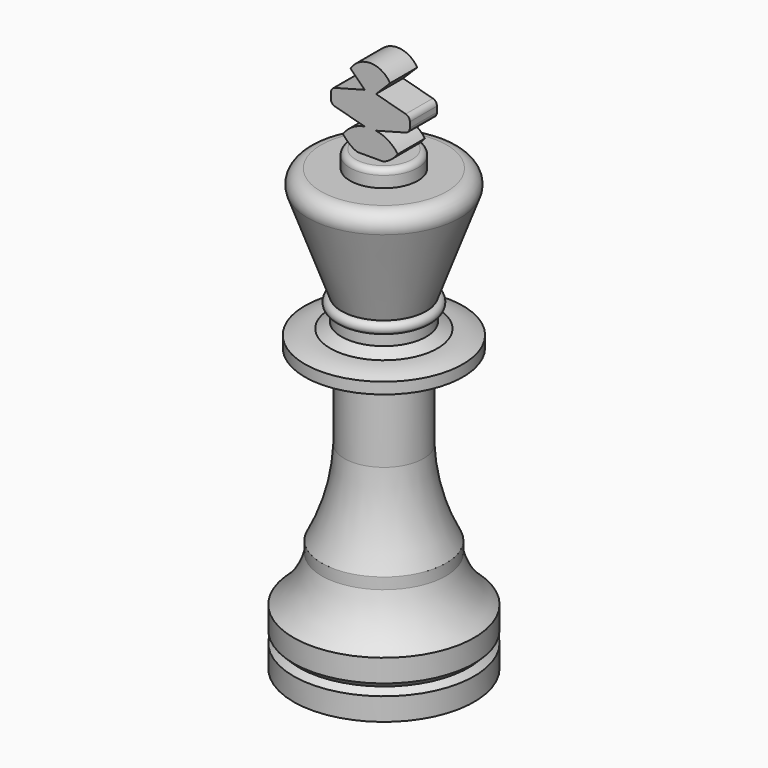
from build123d import *

# Parameters (mm, degrees)
F2_R          = 6
F3_DEPTH      = 3
F4_R          = 1
F6_DEPTH      = 3
F6_DEPTH_BACK = 3
F7_R          = 1


with BuildPart() as f1:
    # F0 (on Front) → F1 (revolve)
    with BuildSketch(Plane.XZ):
        with BuildLine():
            Line((0, 4), (0, 0))
            Line((0, 0), (16, 0))
            Line((16, 0), (16, 78))
            Line((16, 78), (4.849231552, 78))
            ThreePointArc((4.849231552, 78), (2.8013514412, 76.9339410909), (2.5, 74.6449496417))
            Line((2.5, 74.6449496417), (8.5, 58.160085125))
            ThreePointArc((8.5, 58.160085125), (7.5, 57.160085125), (8.5, 56.160085125))
            Line((8.5, 56.160085125), (8.5, 54.160085125))
            Line((8.5, 54.160085125), (6.5, 53))
            ThreePointArc((6.5, 53), (4.1915915237, 52.7628381434), (2, 52))
            Line((2, 52), (2, 50))
            Line((2, 50), (9, 50))
            Line((9, 50), (9, 35))
            ThreePointArc((9, 35), (7.8421376246, 27.2754299668), (5, 20))
            Line((5, 20), (5, 18))
            ThreePointArc((5, 18), (3.1453005351, 13.5966871656), (0, 10))
            Line((0, 10), (0, 6))
            Line((0, 6), (1, 5))
            Line((1, 5), (0, 4))
        make_face()
    revolve(axis=Axis((16, 0, 39), (0, 0, 1)))

    # F2 (on face) → F3 (join)
    with BuildSketch(Plane.XY.offset(78)):
        with Locations((16, 0)):
            Circle(F2_R)
    extrude(amount=F3_DEPTH)

    # F4
    f4_edges = [f1.edges().sort_by_distance(p)[0] for p in [
        (10, 0, 81),
    ]]
    fillet(f4_edges, radius=F4_R)

    # F5 (on Front) → F6 (join, two sides)
    with BuildSketch(Plane.XZ) as f6_sk:
        with BuildLine():
            Line((16, 81), (18.3623095781, 81))
            ThreePointArc((18.3623095781, 81), (19.7481702853, 81.8301741159), (20.8623095781, 83))
            ThreePointArc((20.8623095781, 83), (19.1674121756, 84.5804446681), (17, 85.4006928105))
            Line((17, 85.4006928105), (23, 87.0083879651))
            Line((23, 87.0083879651), (23, 89.5083879651))
            Line((23, 89.5083879651), (17, 91.1160831197))
            Line((17, 91.1160831197), (19.5, 93.6160831197))
            ThreePointArc((19.5, 93.6160831197), (18.0155644371, 95.0808208846), (16, 95.6160831197))
            Line((16, 95.6160831197), (16, 81))
        make_face()
        with BuildLine():
            Line((13.6376904219, 81), (16, 81))
            Line((16, 81), (16, 95.6160831197))
            ThreePointArc((16, 95.6160831197), (13.9844355629, 95.0808208846), (12.5, 93.6160831197))
            Line((12.5, 93.6160831197), (15, 91.1160831197))
            Line((15, 91.1160831197), (9, 89.5083879651))
            Line((9, 89.5083879651), (9, 87.0083879651))
            Line((9, 87.0083879651), (15, 85.4006928105))
            ThreePointArc((15, 85.4006928105), (12.8325878244, 84.5804446681), (11.1376904219, 83))
            ThreePointArc((11.1376904219, 83), (12.2518297147, 81.8301741159), (13.6376904219, 81))
        make_face()
    extrude(amount=F6_DEPTH)
    extrude(f6_sk.sketch, amount=-F6_DEPTH_BACK)

    # F7
    f7_edges = [f1.edges().sort_by_distance(p)[0] for p in [
        (23, 0, 89.508388),
        (23, 0, 87.008388),
        (9, 0, 89.508388),
        (9, 0, 87.008388),
    ]]
    fillet(f7_edges, radius=F7_R)


solid = f1.part
